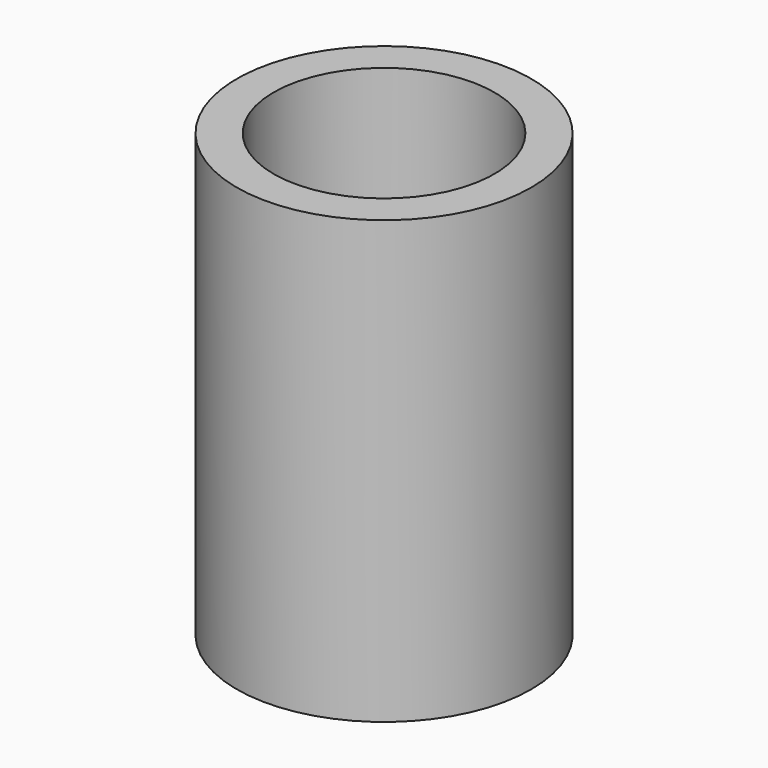
from build123d import *

# Parameters (mm, degrees)
F0_R     = 50.8
F1_DEPTH = 152.4
F3_D     = 76.2


with BuildPart() as f1:
    # F0 (on Top) → F1 (new body)
    with BuildSketch(Plane.XY):
        with Locations((11.546789, 21.141529)):
            Circle(F0_R)
    extrude(amount=F1_DEPTH)

    # F3 (through all)
    with Locations(Plane(origin=(0, 0, 0), x_dir=(1, 0, 0), z_dir=(0, 0, -1))):
        with Locations((11.546789, -21.141529)):
            Hole(F3_D / 2)


solid = f1.part
